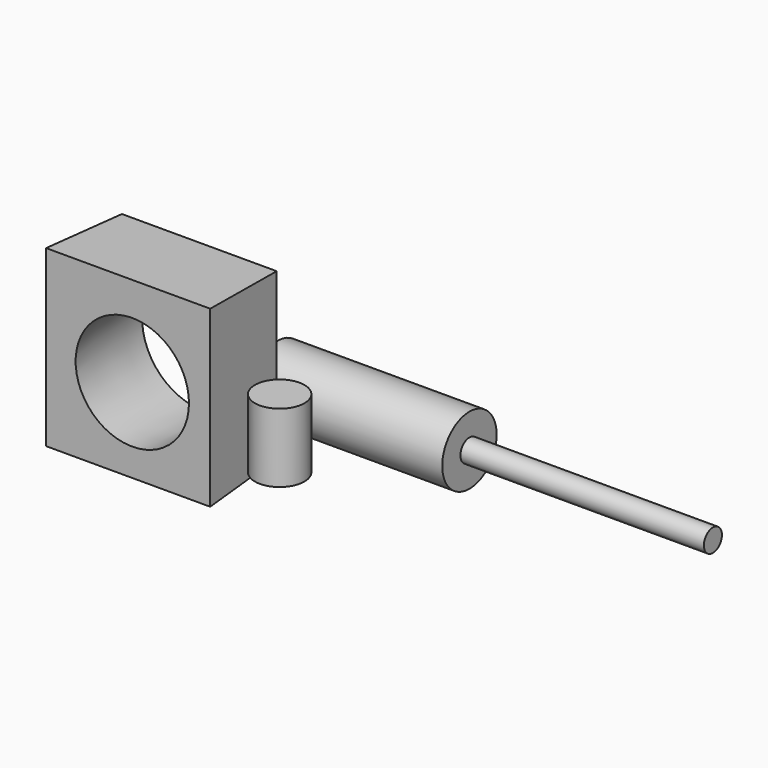
from build123d import *

# Parameters (mm, degrees)
F0_W     = 56.9996088743
F0_H     = 60.7708934695
F0_R     = 22.583664069
F1_DEPTH = 32.766
F1_TAPER = -3
F2_R     = 9.1207647164
F3_DEPTH = 25.4
F4_R     = 12.5236196166
F5_DEPTH = 70.612
F6_R     = 4.147507251
F7_DEPTH = 89.662


with BuildPart() as f1:
    # F0 (on Front) → F1 (new body)
    with BuildSketch(Plane.XZ):
        with Locations((-1.53224729, 1.086439006)):
            Rectangle(F0_W, F0_H)
        Circle(F0_R, mode=Mode.SUBTRACT)
    extrude(amount=F1_DEPTH, taper=F1_TAPER)


with BuildPart() as f3:
    # F2 (on Top) → F3 (new body)
    with BuildSketch(Plane.XY):
        with Locations((68.1483224034, -50.1156412065)):
            Circle(F2_R)
    extrude(amount=F3_DEPTH)


with BuildPart() as f5:
    # F4 (on Right) → F5 (new body)
    with BuildSketch(Plane.YZ):
        with Locations((34.1417044401, -26.2538418174)):
            Circle(F4_R)
    extrude(amount=F5_DEPTH)

    # F6 (on face) → F7 (join)
    with BuildSketch(Plane.YZ.offset(70.612)):
        with Locations((34.1417044401, -26.2538418174)):
            Circle(F6_R)
    extrude(amount=F7_DEPTH)


solid = Compound([f1.part, f3.part, f5.part])
